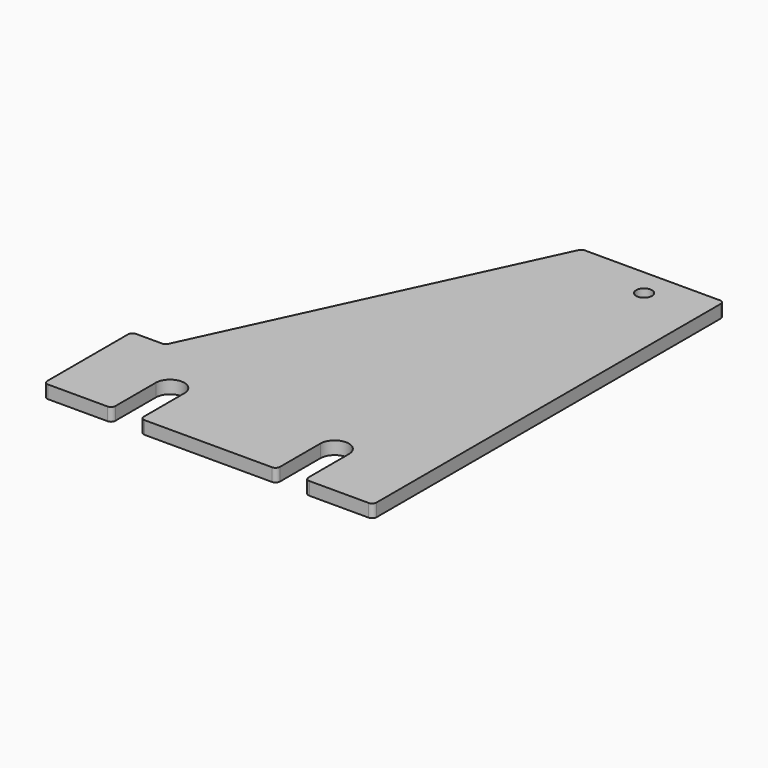
from build123d import *

# Parameters (mm, degrees)
SKETCH_R  = 1.8288
PAD_DEPTH = 3


with BuildPart() as part:
    # Sketch → Pad (new body)
    with BuildSketch(Plane.XY):
        with BuildLine():
            ThreePointArc((5.800476, 50.8), (5.263177, 50.643391), (4.894168, 50.222618))
            Line((4.894168, 50.222618), (-30.1, -24.822618))
            ThreePointArc((-31.006308, -25.4), (-30.469008, -25.243391), (-30.1, -24.822618))
            Line((-37.1, -25.4), (-31.006308, -25.4))
            ThreePointArc((-37.1, -25.4), (-37.807107, -25.692893), (-38.1, -26.4))
            Line((-38.1, -49.8), (-38.1, -26.4))
            ThreePointArc((-38.1, -49.8), (-37.807107, -50.507107), (-37.1, -50.8))
            Line((-37.1, -50.8), (-23.352, -50.8))
            ThreePointArc((-23.352, -50.8), (-22.644893, -50.507107), (-22.352, -49.8))
            Line((-22.352, -38.1), (-22.352, -49.8))
            ThreePointArc((-15.748, -38.1), (-19.05, -34.798), (-22.352, -38.1))
            Line((-15.748, -38.1), (-15.748, -49.8))
            ThreePointArc((-15.748, -49.8), (-15.455107, -50.507107), (-14.748, -50.8))
            Line((-14.748, -50.8), (14.748, -50.8))
            ThreePointArc((14.748, -50.8), (15.455107, -50.507107), (15.748, -49.8))
            Line((15.748, -38.1), (15.748, -49.8))
            ThreePointArc((22.352, -38.1), (19.05, -34.798), (15.748, -38.1))
            Line((22.352, -38.1), (22.352, -49.8))
            ThreePointArc((22.352, -49.8), (22.644893, -50.507107), (23.352, -50.8))
            Line((23.352, -50.8), (37.1, -50.8))
            ThreePointArc((37.1, -50.8), (37.807107, -50.507107), (38.1, -49.8))
            Line((38.1, 49.8), (38.1, -49.8))
            ThreePointArc((38.1, 49.8), (37.807107, 50.507107), (37.1, 50.8))
            Line((5.800476, 50.8), (37.1, 50.8))
        make_face()
        with Locations((24.6352, 44.45)):
            Circle(SKETCH_R, mode=Mode.SUBTRACT)
    extrude(amount=PAD_DEPTH)


solid = part.part
